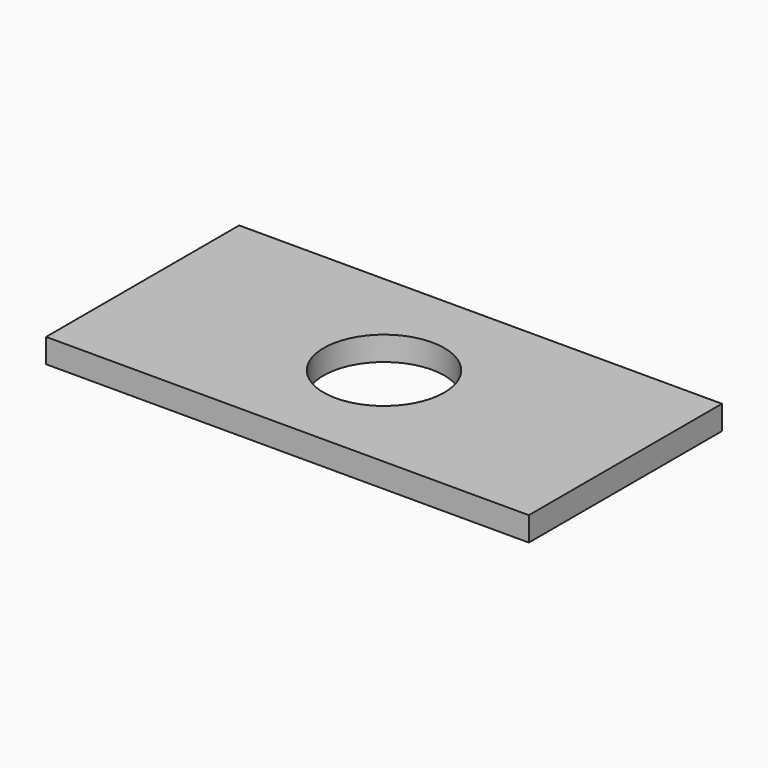
from build123d import *

# Parameters (mm, degrees)
SKETCH_W  = 200
SKETCH_H  = 100
SKETCH_R  = 25
PAD_DEPTH = 10


with BuildPart() as part:
    # Sketch → Pad (new body)
    with BuildSketch(Plane.XY):
        Rectangle(SKETCH_W, SKETCH_H)
        Circle(SKETCH_R, mode=Mode.SUBTRACT)
    extrude(amount=PAD_DEPTH)


solid = part.part
